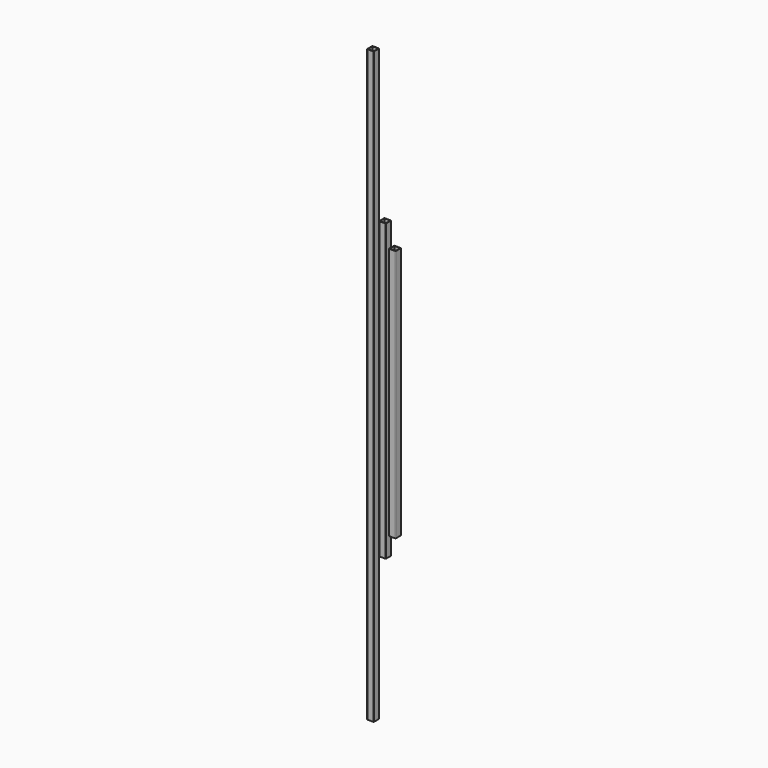
from build123d import *

# Parameters (mm, degrees)
F0_W     = 80
F0_H     = 80
F0_W_2   = 70
F0_H_2   = 70
F1_DEPTH = 1750
F2_W     = 80
F2_H     = 80
F2_W_2   = 70
F2_H_2   = 70
F3_DEPTH = 1500
F4_W     = 80
F4_H     = 80
F4_W_2   = 70
F4_H_2   = 70
F5_DEPTH = 3500
F6_R     = 5
F6_2_R   = 5
F6_3_R   = 5


with BuildPart() as f1:
    # F0 (on Top) → F1 (new body, symmetric)
    with BuildSketch(Plane.XY):
        Rectangle(F0_W, F0_H)
        Rectangle(F0_W_2, F0_H_2, mode=Mode.SUBTRACT)
    extrude(amount=F1_DEPTH, both=True)

    # F6
    f6_edges = [f1.edges().sort_by_distance(p)[0] for p in [
        (-40, 40, 0),
        (-40, -40, 0),
        (40, -40, 0),
        (40, 40, 0),
    ]]
    fillet(f6_edges, radius=F6_R)


with BuildPart() as f3:
    # F2 (on Top) → F3 (new body, symmetric)
    with BuildSketch(Plane.XY):
        with Locations((116.6609823704, 0)):
            Rectangle(F2_W, F2_H)
        with Locations((116.6609823704, 0)):
            Rectangle(F2_W_2, F2_H_2, mode=Mode.SUBTRACT)
    extrude(amount=F3_DEPTH, both=True)

    # F6#2
    f6_2_edges = [f3.edges().sort_by_distance(p)[0] for p in [
        (156.660982, -40, 0),
        (76.660982, -40, 0),
        (156.660982, 40, 0),
        (76.660982, 40, 0),
    ]]
    fillet(f6_2_edges, radius=F6_2_R)


with BuildPart() as f5:
    # F4 (on Top) → F5 (new body, symmetric)
    with BuildSketch(Plane.XY):
        with Locations((-142.4270495772, 0)):
            Rectangle(F4_W, F4_H)
        with Locations((-142.4270495772, 0)):
            Rectangle(F4_W_2, F4_H_2, mode=Mode.SUBTRACT)
    extrude(amount=F5_DEPTH, both=True)

    # F6#3
    f6_3_edges = [f5.edges().sort_by_distance(p)[0] for p in [
        (-102.42705, -40, 0),
        (-182.42705, -40, 0),
        (-102.42705, 40, 0),
        (-182.42705, 40, 0),
    ]]
    fillet(f6_3_edges, radius=F6_3_R)


solid = Compound([f1.part, f3.part, f5.part])
